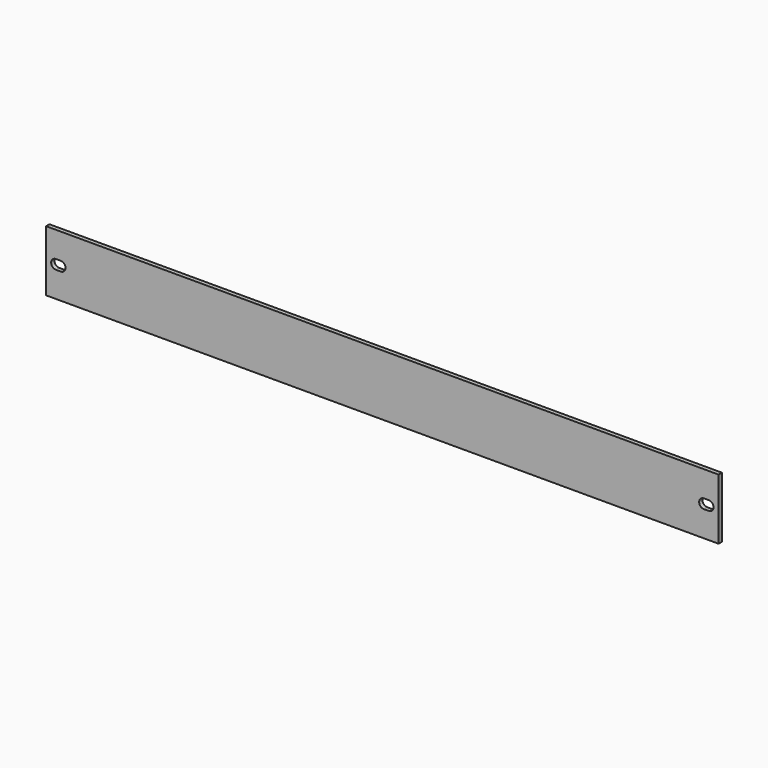
from build123d import *

# Parameters (mm, degrees)
F0_W     = 482.6
F0_H     = 43.7
F1_DEPTH = 3
F2_W     = 3.5
F2_H     = 6.8
F3_W     = 3.5
F3_H     = 6.8
F4_DEPTH = 3


with BuildPart() as f1:
    # F0 (on Front) → F1 (new body)
    with BuildSketch(Plane.XZ):
        Rectangle(F0_W, F0_H)
    extrude(amount=-F1_DEPTH)

    # F2 (on face) + F3 (on face) → F4 (cut)
    with BuildSketch(Plane.XZ):
        with Locations((-232.5, 0)):
            Rectangle(F2_W, F2_H)
        with BuildLine():
            Line((-230.75, 3.4), (-230.75, -3.4))
            ThreePointArc((-230.75, -3.4), (-227.35, 0), (-230.75, 3.4))
        make_face()
        with BuildLine():
            ThreePointArc((-234.25, 3.4), (-237.65, 0), (-234.25, -3.4))
            Line((-234.25, -3.4), (-234.25, 3.4))
        make_face()
    with BuildSketch(Plane.XZ):
        with Locations((232.5, 0)):
            Rectangle(F3_W, F3_H)
        with BuildLine():
            Line((234.25, 3.4), (234.25, -3.4))
            ThreePointArc((234.25, -3.4), (237.65, 0), (234.25, 3.4))
        make_face()
        with BuildLine():
            ThreePointArc((230.75, 3.4), (227.35, 0), (230.75, -3.4))
            Line((230.75, -3.4), (230.75, 3.4))
        make_face()
    extrude(amount=-F4_DEPTH, mode=Mode.SUBTRACT)


solid = f1.part
